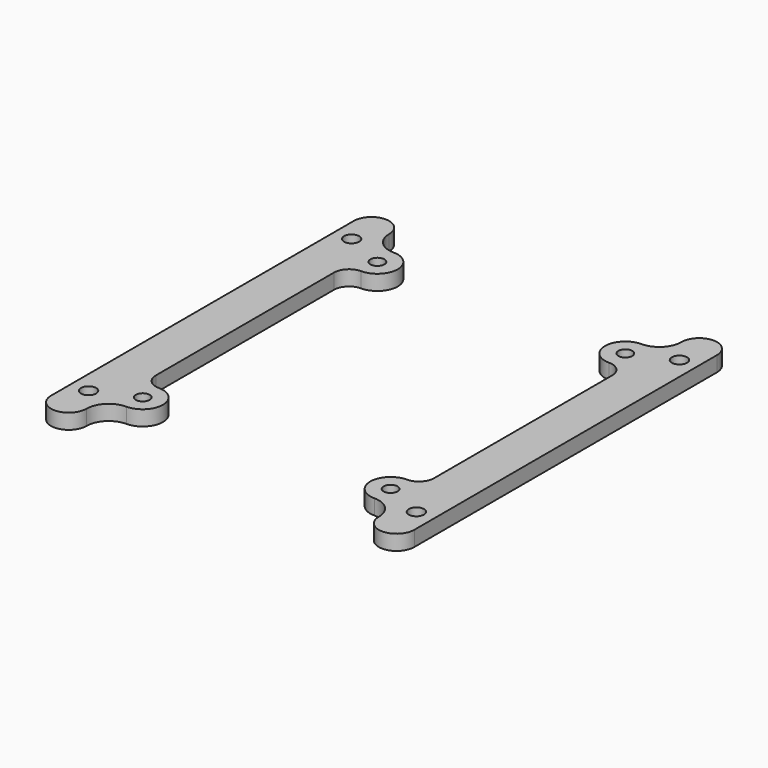
from build123d import *

# Parameters (mm, degrees)
SKETCH001002028_R   = 1.375
SKETCH001002028_R_2 = 1.5
PAD023_DEPTH        = 3
SKETCH001002030_R   = 1.375
SKETCH001002030_R_2 = 1.5
PAD024_DEPTH        = 3


with BuildPart() as body023:
    # Sketch001002028 → Pad023 (new body)
    with BuildSketch(Plane(origin=(0, 45, -16.5), x_dir=(0, -1, 0), z_dir=(0, 0, 1))):
        with BuildLine():
            ThreePointArc((-40.6, 54.6), (-36.6, 50.6), (-32.6, 54.6))
            ThreePointArc((-29.6, 57.6), (-31.72132, 56.72132), (-32.6, 54.6))
            Line((-29.6, 57.6), (14.4, 57.6))
            ThreePointArc((17.4, 54.6), (16.52132, 56.72132), (14.4, 57.6))
            ThreePointArc((17.4, 54.6), (21.4, 50.6), (25.4, 54.6))
            ThreePointArc((29.8, 59), (26.68873, 57.71127), (25.4, 54.6))
            ThreePointArc((29.8, 59), (33.3, 62.5), (29.8, 66))
            Line((29.8, 66), (-45, 66))
            ThreePointArc((-45, 66), (-48.5, 62.5), (-45, 59))
            ThreePointArc((-40.6, 54.6), (-41.88873, 57.71127), (-45, 59))
        make_face()
        with Locations((-36.6, 54.6)):
            Circle(SKETCH001002028_R, mode=Mode.SUBTRACT)
        with Locations((21.4, 54.6)):
            Circle(SKETCH001002028_R, mode=Mode.SUBTRACT)
        with Locations((-40.1, 62.5)):
            Circle(SKETCH001002028_R_2, mode=Mode.SUBTRACT)
        with Locations((24.9, 62.5)):
            Circle(SKETCH001002028_R_2, mode=Mode.SUBTRACT)
    extrude(amount=PAD023_DEPTH)


with BuildPart() as obj1:
    # Sketch001002030 → Pad024 (new body)
    with BuildSketch(Plane(origin=(0, 45, -16.5), x_dir=(0, -1, 0), z_dir=(0, 0, 1))):
        with BuildLine():
            ThreePointArc((25.4, 5.6), (21.4, 9.6), (17.4, 5.6))
            ThreePointArc((14.4, 2.6), (16.52132, 3.47868), (17.4, 5.6))
            Line((14.4, 2.6), (-29.6, 2.6))
            ThreePointArc((-32.6, 5.6), (-31.72132, 3.47868), (-29.6, 2.6))
            ThreePointArc((-32.6, 5.6), (-36.6, 9.6), (-40.6, 5.6))
            ThreePointArc((-45, 1.2), (-41.88873, 2.48873), (-40.6, 5.6))
            ThreePointArc((-45, 1.2), (-48.5, -2.3), (-45, -5.8))
            Line((-45, -5.8), (29.8, -5.8))
            ThreePointArc((29.8, -5.8), (33.3, -2.3), (29.8, 1.2))
            ThreePointArc((25.4, 5.6), (26.68873, 2.48873), (29.8, 1.2))
        make_face()
        with Locations((21.4, 5.6)):
            Circle(SKETCH001002030_R, mode=Mode.SUBTRACT)
        with Locations((-36.6, 5.6)):
            Circle(SKETCH001002030_R, mode=Mode.SUBTRACT)
        with Locations((24.9, -2.3)):
            Circle(SKETCH001002030_R_2, mode=Mode.SUBTRACT)
        with Locations((-40.1, -2.3)):
            Circle(SKETCH001002030_R_2, mode=Mode.SUBTRACT)
    extrude(amount=PAD024_DEPTH)

    # Fusion: union Body023
    add(body023.part)


with BuildPart() as obj1_1:
    # Fusion placement: moved
    add(obj1.part.moved(Location((-20, 0, 0))))


solid = obj1_1.part
